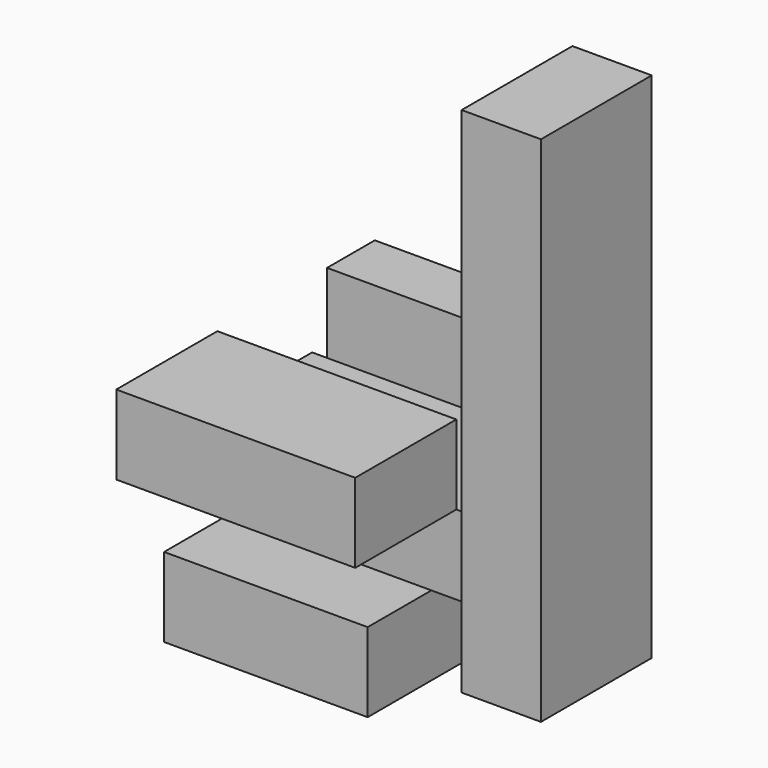
from build123d import *

# Parameters (mm, degrees)
F0_W     = 65.211655
F0_H     = 89.632485
F1_DEPTH = 25.4
F2_W     = 83.387902
F2_H     = 43.929244
F2_W_2   = 8.13628
F3_DEPTH = 25.4
F4_W     = 76.544497
F4_H     = 19.105036
F4_H_2   = 40.473608
F5_DEPTH = 25.4
F6_W     = 44.349514
F6_H     = 164.298385
F7_DEPTH = 25.4


with BuildPart() as f1:
    # F0 (on Top) → F1 (new body)
    with BuildSketch(Plane.XY):
        with Locations((12.869878, -1.71314)):
            Rectangle(F0_W, F0_H)
    extrude(amount=F1_DEPTH)

    # F2 (on face) → F3 (join)
    with BuildSketch(Plane.XY.offset(25.4)):
        with Locations((13.821722, 0.941525)):
            Rectangle(F2_W, F2_H)
        with Locations((-23.804089, 0.941525)):
            Rectangle(F2_W_2, F2_H)
    extrude(amount=F3_DEPTH)

    # F6 (on face) → F7 (join)
    with BuildSketch(Plane.YZ.offset(55.515673)):
        with Locations((0.73139, 82.149192)):
            Rectangle(F6_W, F6_H)
    extrude(amount=F7_DEPTH)


with BuildPart() as f5:
    # F4 (on face) → F5 (new body)
    with BuildSketch(Plane.XY.offset(50.8)):
        with Locations((15.194813, 32.458665)):
            Rectangle(F4_W, F4_H)
        with Locations((15.194813, -41.259901)):
            Rectangle(F4_W, F4_H_2)
    extrude(amount=F5_DEPTH)


solid = Compound([f1.part, f5.part])
